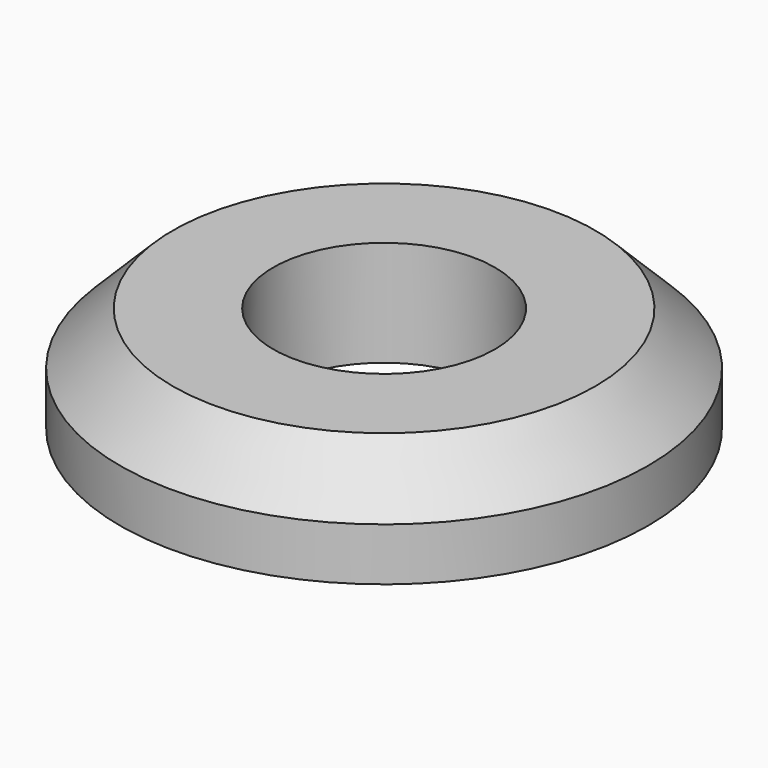
from build123d import *


with BuildPart() as part:
    # Sketch → Revolution (revolve)
    with BuildSketch(Plane.XZ):
        Polygon((2.1, 0), (2.1, 2), (4, 2), (5, 1), (5, 0), align=None)
    revolve(axis=Axis((0, 0, 0), (0, 0, 1)))


solid = part.part
